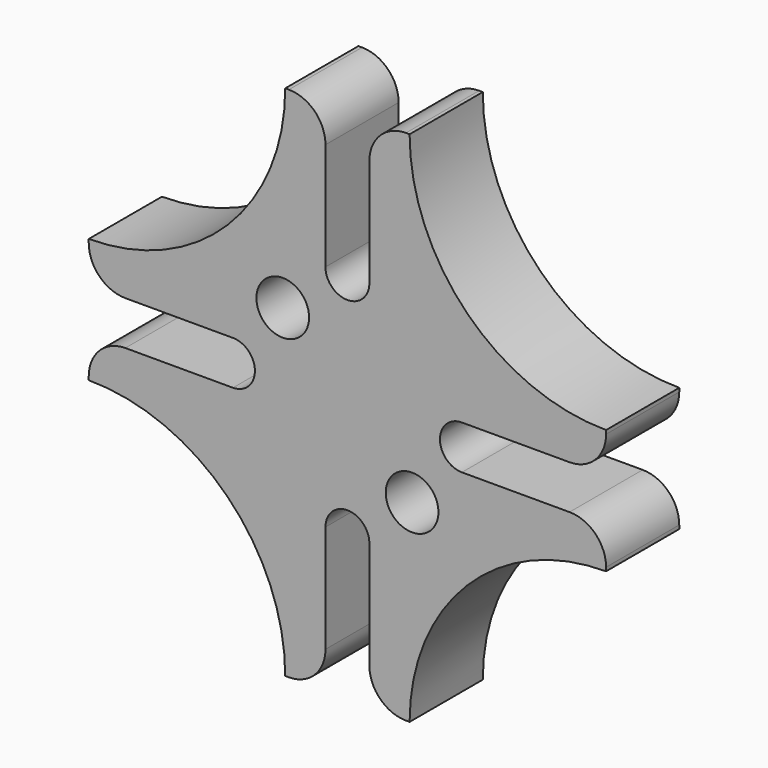
from build123d import *

# Parameters (mm, degrees)
F0_R     = 1.8288
F1_DEPTH = 6.35
F2_R     = 2.54


with BuildPart() as f1:
    # F0 (on Front) → F1 (new body)
    with BuildSketch(Plane.XZ):
        with BuildLine():
            Line((-4.318172, -17.96034), (-1.524, -17.96034))
            Line((-1.524, -17.96034), (-1.524, -7.94766))
            ThreePointArc((-1.524, -7.94766), (0, -6.42366), (1.524, -7.94766))
            Line((1.524, -7.94766), (1.524, -17.96034))
            Line((1.524, -17.96034), (4.318172, -17.96034))
            ThreePointArc((4.318172, -17.96034), (8.313921, -8.313921), (17.96034, -4.318172))
            Line((17.96034, -4.318172), (17.96034, -1.524))
            Line((17.96034, -1.524), (7.94766, -1.524))
            ThreePointArc((7.94766, -1.524), (6.42366, 0), (7.94766, 1.524))
            Line((7.94766, 1.524), (17.96034, 1.524))
            Line((17.96034, 1.524), (17.96034, 4.318172))
            ThreePointArc((17.96034, 4.318172), (8.313921, 8.313921), (4.318172, 17.96034))
            Line((4.318172, 17.96034), (1.524, 17.96034))
            Line((1.524, 17.96034), (1.524, 7.94766))
            ThreePointArc((1.524, 7.94766), (0, 6.42366), (-1.524, 7.94766))
            Line((-1.524, 7.94766), (-1.524, 17.96034))
            Line((-1.524, 17.96034), (-4.318172, 17.96034))
            ThreePointArc((-4.318172, 17.96034), (-8.313921, 8.313921), (-17.96034, 4.318172))
            Line((-17.96034, 4.318172), (-17.96034, 1.524))
            Line((-17.96034, 1.524), (-7.94766, 1.524))
            ThreePointArc((-7.94766, 1.524), (-6.42366, 0), (-7.94766, -1.524))
            Line((-7.94766, -1.524), (-17.96034, -1.524))
            Line((-17.96034, -1.524), (-17.96034, -4.318172))
            ThreePointArc((-17.96034, -4.318172), (-8.313921, -8.313921), (-4.318172, -17.96034))
        make_face()
        with Locations((4.490128, -4.490128)):
            Circle(F0_R, mode=Mode.SUBTRACT)
        with Locations((-4.490128, 4.490128)):
            Circle(F0_R, mode=Mode.SUBTRACT)
    extrude(amount=F1_DEPTH)

    # F2
    f2_edges = [f1.edges().sort_by_distance(p)[0] for p in [
        (-1.524, -3.175, -17.96034),
        (1.524, -3.175, -17.96034),
        (-17.96034, -3.175, 1.524),
        (17.96034, -3.175, 1.524),
        (-17.96034, -3.175, -1.524),
        (17.96034, -3.175, -1.524),
        (1.524, -3.175, 17.96034),
        (-1.524, -3.175, 17.96034),
    ]]
    fillet(f2_edges, radius=F2_R)


solid = f1.part
